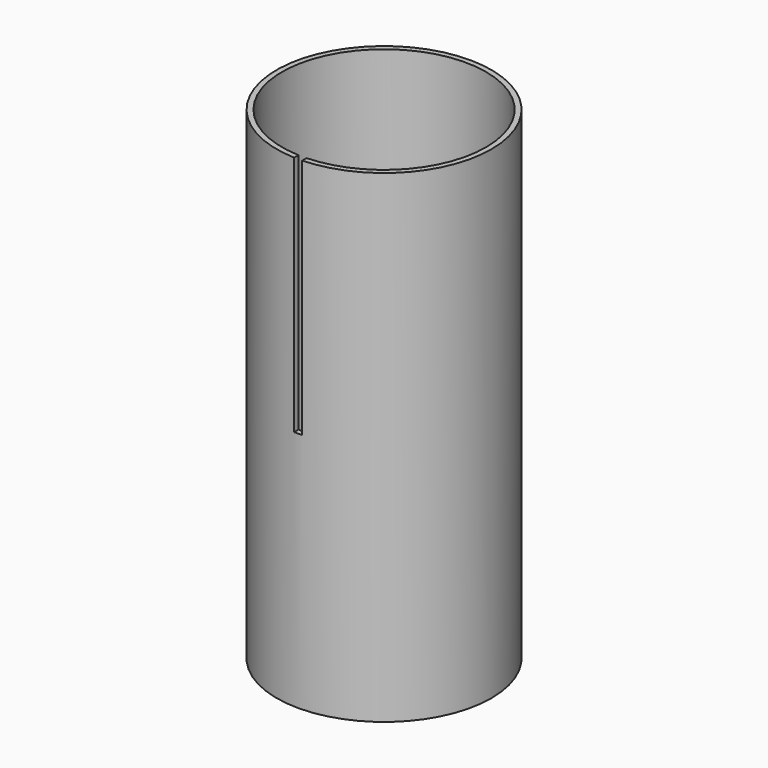
from build123d import *

# Parameters (mm, degrees)
F0_R     = 40
F0_R_2   = 38
F1_DEPTH = 180
F2_W     = 3
F2_H     = 90
F3_DEPTH = 160
F4_W     = 10
F4_H     = 50
F5_DEPTH = 66.8


with BuildPart() as f1:
    # F0 (on Top) → F1 (new body)
    with BuildSketch(Plane.XY):
        Circle(F0_R)
        Circle(F0_R_2, mode=Mode.SUBTRACT)
    extrude(amount=F1_DEPTH)

    # F2 (on Front) → F3 (cut)
    with BuildSketch(Plane.XZ):
        with Locations((0, 135)):
            Rectangle(F2_W, F2_H)
    extrude(amount=F3_DEPTH, mode=Mode.SUBTRACT)

    # F4 (on Front) → F5 (cut)
    with BuildSketch(Plane.XZ):
        with Locations((0, 25)):
            Rectangle(F4_W, F4_H)
    extrude(amount=-F5_DEPTH, mode=Mode.SUBTRACT)


solid = f1.part
